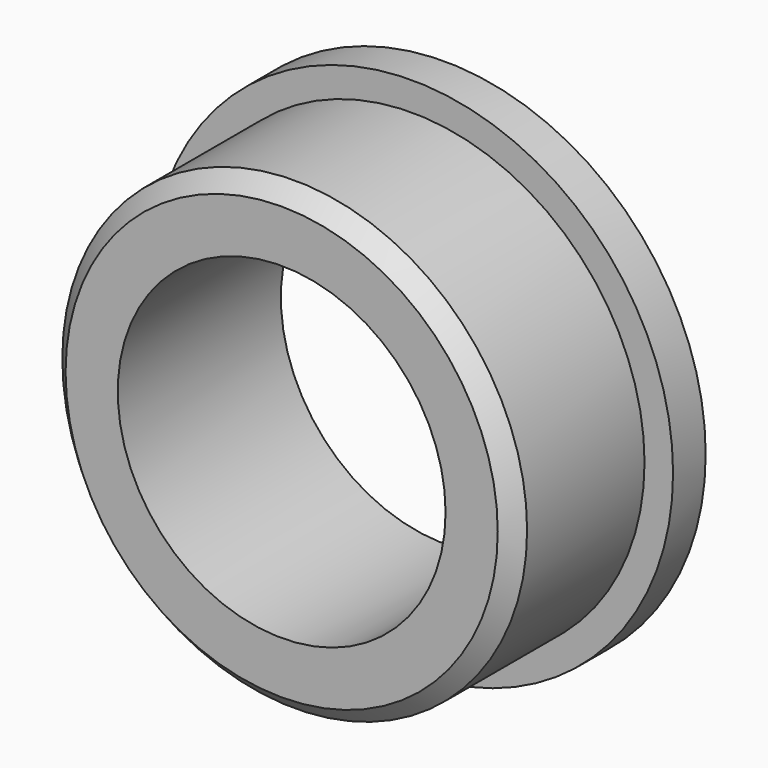
from build123d import *

# Parameters (mm, degrees)
F0_R     = 14.25
F1_DEPTH = 10
F2_R     = 16
F3_DEPTH = 2.5
F4_SIZE  = 1
F5_R     = 10.05
F6_DEPTH = 15


with BuildPart() as f1:
    # F0 (on Front) → F1 (new body)
    with BuildSketch(Plane.XZ):
        Circle(F0_R)
    extrude(amount=F1_DEPTH)

    # F2 (on Front) → F3 (join)
    with BuildSketch(Plane.XZ):
        Circle(F2_R)
    extrude(amount=-F3_DEPTH)

    # F4
    f4_edges = [f1.edges().sort_by_distance(p)[0] for p in [
        (-14.25, -10, 0),
    ]]
    chamfer(f4_edges, length=F4_SIZE)

    # F5 (on face) → F6 (cut)
    with BuildSketch(Plane.XZ.offset(10)):
        Circle(F5_R)
    extrude(amount=-F6_DEPTH, mode=Mode.SUBTRACT)


solid = f1.part
